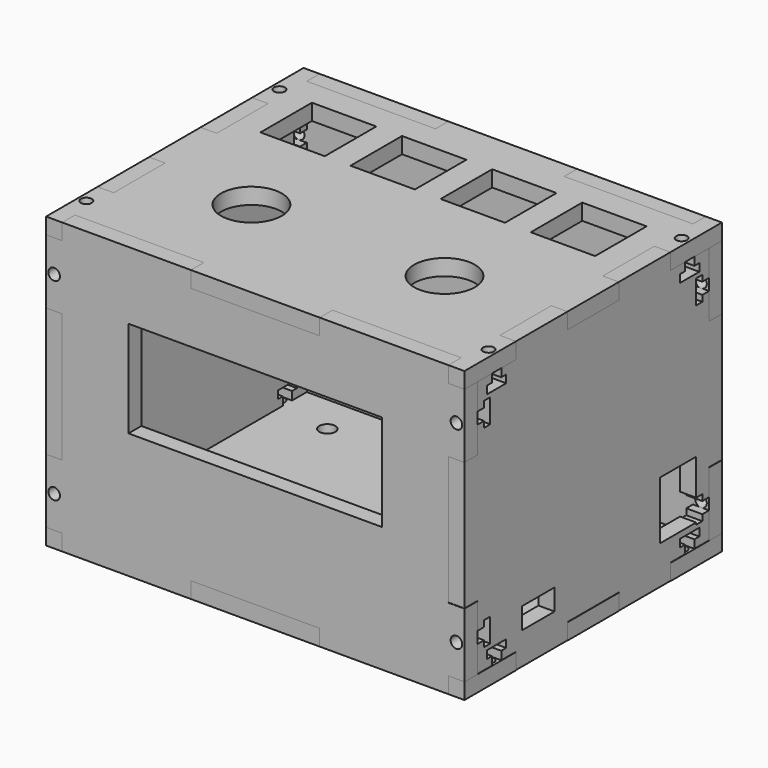
from build123d import *

# Parameters (mm, degrees)
F0_R      = 1.085347
F0_R_2    = 1.5875
F1_DEPTH  = 3.175
F3_DEPTH  = 3.175
F4_R      = 1.143
F4_W      = 50.038
F4_H      = 19.05
F5_DEPTH  = 3.175
F6_R      = 1.085347
F6_R_2    = 6.000001
F6_W      = 12.7
F6_H      = 12.7
F7_DEPTH  = 3.175
F9_W      = 8.001
F9_H      = 4.191
F10_DEPTH = 3.175
F12_R     = 1.143
F13_DEPTH = 3.175


with BuildPart() as f1:
    # F0 (on Top) → F1 (new body)
    with BuildSketch(Plane.XY):
        Polygon((0, 12.7), (0, 0), (3.175, 0), (3.175, 3.175), (28.575, 3.175), (28.575, 0), (53.975, 0), (53.975, 3.175), (64.135, 3.175), (79.375, 3.175), (79.375, 0), (80.9625, 0), (82.55, 0), (82.55, 7.9375), (82.55, 12.7), (79.375, 12.7), (79.375, 25.4), (82.55, 25.4), (82.55, 38.1), (79.375, 38.1), (79.375, 50.8), (82.55, 50.8), (82.55, 63.5), (79.375, 63.5), (79.375, 60.325), (65.405, 60.325), (53.975, 60.325), (53.975, 63.5), (28.575, 63.5), (28.575, 60.325), (14.298205, 60.325), (13.335, 60.325), (3.175, 60.325), (3.175, 63.5), (0, 63.5), (0, 50.8), (3.175, 50.8), (3.175, 38.1), (0, 38.1), (0, 25.4), (3.175, 25.4), (3.175, 12.7), align=None)
        with Locations((1.587501, 7.9375)):
            Circle(F0_R, mode=Mode.SUBTRACT)
        with Locations((13.335, 24.765)):
            Circle(F0_R_2, mode=Mode.SUBTRACT)
        with Locations((64.135, 9.525)):
            Circle(F0_R_2, mode=Mode.SUBTRACT)
        with Locations((80.962501, 7.9375)):
            Circle(F0_R, mode=Mode.SUBTRACT)
        with Locations((13.335, 52.705)):
            Circle(F0_R_2, mode=Mode.SUBTRACT)
        with Locations((1.587501, 55.5625)):
            Circle(F0_R, mode=Mode.SUBTRACT)
        with Locations((65.405, 57.785)):
            Circle(F0_R_2, mode=Mode.SUBTRACT)
        with Locations((80.962501, 55.5625)):
            Circle(F0_R, mode=Mode.SUBTRACT)
    extrude(amount=F1_DEPTH)


with BuildPart() as f3:
    # F2 (on Right) → F3 (new body)
    with BuildSketch(Plane.YZ):
        Polygon((25.4, 57.15), (12.7, 57.15), (12.7, 53.975), (9.0805, 53.975), (9.0805, 52.324), (10.287, 52.324), (10.287, 50.8), (9.0805, 50.8), (6.7945, 50.8), (5.588, 50.8), (5.588, 52.324), (6.7945, 52.324), (6.7945, 53.975), (3.175, 53.975), (3.175, 48.768), (4.826, 48.768), (4.826, 49.9745), (6.35, 49.9745), (6.35, 48.768), (6.35, 46.482), (6.35, 45.2755), (4.826, 45.2755), (4.826, 46.482), (3.175, 46.482), (3.175, 41.275), (0, 41.275), (0, 15.875), (3.175, 15.875), (3.175, 10.668), (4.826, 10.668), (4.826, 11.8745), (6.35, 11.8745), (6.35, 10.668), (6.35, 8.382), (6.35, 7.1755), (4.826, 7.1755), (4.826, 8.382), (3.175, 8.382), (3.175, 3.175), (6.7945, 3.175), (6.7945, 4.826), (5.588, 4.826), (5.588, 6.35), (6.7945, 6.35), (9.0805, 6.35), (10.287, 6.35), (10.287, 4.826), (9.0805, 4.826), (9.0805, 3.175), (12.7, 3.175), (12.7, 0), (25.4, 0), (25.4, 3.175), (38.1, 3.175), (38.1, 0), (50.8, 0), (50.8, 3.175), (54.4195, 3.175), (54.4195, 4.826), (53.213, 4.826), (53.213, 6.35), (54.4195, 6.35), (56.7055, 6.35), (57.912, 6.35), (57.912, 4.826), (56.7055, 4.826), (56.7055, 3.175), (60.325, 3.175), (60.325, 8.382), (58.674, 8.382), (58.674, 7.1755), (57.15, 7.1755), (57.15, 8.382), (57.15, 10.668), (57.15, 11.8745), (58.674, 11.8745), (58.674, 10.668), (60.325, 10.668), (60.325, 15.875), (63.5, 15.875), (63.5, 41.275), (60.325, 41.275), (60.325, 46.482), (58.674, 46.482), (58.674, 45.2755), (57.15, 45.2755), (57.15, 46.482), (57.15, 48.768), (57.15, 49.9745), (58.674, 49.9745), (58.674, 48.768), (60.325, 48.768), (60.325, 53.975), (56.7055, 53.975), (56.7055, 52.324), (57.912, 52.324), (57.912, 50.8), (56.7055, 50.8), (54.4195, 50.8), (53.213, 50.8), (53.213, 52.324), (54.4195, 52.324), (54.4195, 53.975), (50.8, 53.975), (50.8, 57.15), (38.1, 57.15), (38.1, 53.975), (25.4, 53.975), align=None)
    extrude(amount=F3_DEPTH)


with BuildPart() as f5:
    # F4 (on Front) → F5 (new body)
    with BuildSketch(Plane.XZ):
        Polygon((3.175, 3.175), (3.175, 0), (28.575, 0), (28.575, 3.175), (53.975, 3.175), (53.975, 0), (79.375, 0), (79.375, 3.175), (82.55, 3.175), (82.55, 15.875), (79.375, 15.875), (79.375, 41.275), (82.55, 41.275), (82.55, 53.975), (79.375, 53.975), (79.375, 57.15), (53.975, 57.15), (53.975, 53.975), (28.575, 53.975), (28.575, 57.15), (3.175, 57.15), (3.175, 53.975), (0, 53.975), (0, 41.275), (3.175, 41.275), (3.175, 15.875), (0, 15.875), (0, 9.525), (0, 3.175), align=None)
        with Locations((1.5875, 9.525)):
            Circle(F4_R, mode=Mode.SUBTRACT)
        with Locations((80.9625, 9.525)):
            Circle(F4_R, mode=Mode.SUBTRACT)
        with Locations((1.5875, 47.625)):
            Circle(F4_R, mode=Mode.SUBTRACT)
        with Locations((41.275, 34.29)):
            Rectangle(F4_W, F4_H, mode=Mode.SUBTRACT)
        with Locations((80.9625, 47.625)):
            Circle(F4_R, mode=Mode.SUBTRACT)
    extrude(amount=-F5_DEPTH)


with BuildPart() as f7:
    # F6 (on Top) → F7 (new body)
    with BuildSketch(Plane.XY):
        Polygon((0, 12.7), (0, 0), (3.175, 0), (3.175, 3.175), (28.575, 3.175), (28.575, 0), (53.975, 0), (53.975, 3.175), (64.135, 3.175), (79.375, 3.175), (79.375, 0), (82.55, 0), (82.55, 12.7), (79.375, 12.7), (79.375, 25.4), (82.55, 25.4), (82.55, 38.1), (79.375, 38.1), (79.375, 50.8), (82.55, 50.8), (82.55, 63.5), (79.375, 63.5), (79.375, 60.325), (65.405, 60.325), (53.975, 60.325), (53.975, 63.5), (28.575, 63.5), (28.575, 60.325), (14.298205, 60.325), (13.335, 60.325), (8.255, 60.325), (3.175, 60.325), (3.175, 63.5), (1.5875, 63.5), (0, 63.5), (0, 55.5625), (0, 50.8), (3.175, 50.8), (3.175, 38.1), (0, 38.1), (0, 25.4), (3.175, 25.4), (3.175, 12.7), align=None)
        with Locations((1.5875, 7.9375)):
            Circle(F6_R, mode=Mode.SUBTRACT)
        with Locations((22.225, 22.86)):
            Circle(F6_R_2, mode=Mode.SUBTRACT)
        with Locations((80.9625, 7.9375)):
            Circle(F6_R, mode=Mode.SUBTRACT)
        with Locations((60.325, 22.86)):
            Circle(F6_R_2, mode=Mode.SUBTRACT)
        with Locations((1.5875, 55.5625)):
            Circle(F6_R, mode=Mode.SUBTRACT)
        with Locations((14.605, 48.895)):
            Rectangle(F6_W, F6_H, mode=Mode.SUBTRACT)
        with Locations((32.385, 48.895)):
            Rectangle(F6_W, F6_H, mode=Mode.SUBTRACT)
        with Locations((50.165, 48.895)):
            Rectangle(F6_W, F6_H, mode=Mode.SUBTRACT)
        with Locations((67.945, 48.895)):
            Rectangle(F6_W, F6_H, mode=Mode.SUBTRACT)
        with Locations((80.9625, 55.5625)):
            Circle(F6_R, mode=Mode.SUBTRACT)
    extrude(amount=F7_DEPTH)


with BuildPart() as f7_1:
    # F8: moved
    add(f7.part.moved(Location((0, 0, 53.975))))


with BuildPart() as f10:
    # F9 (on Right) → F10 (new body)
    with BuildSketch(Plane.YZ):
        Polygon((25.4, 57.15), (12.7, 57.15), (12.7, 54.026428), (12.7, 53.975), (9.0805, 53.975), (9.0805, 52.375428), (10.287, 52.375428), (10.287, 50.851428), (9.0805, 50.851428), (6.7945, 50.851428), (5.588, 50.851428), (5.588, 52.375428), (6.7945, 52.375428), (6.7945, 53.975), (3.175, 53.975), (3.175, 48.819428), (4.826, 48.819428), (4.826, 50.025928), (6.35, 50.025928), (6.35, 48.819428), (6.35, 46.533428), (6.35, 45.326928), (4.826, 45.326928), (4.826, 46.533428), (3.175, 46.533428), (3.175, 41.326428), (3.175, 41.275), (0, 41.275), (0, 15.926428), (3.175, 15.926428), (3.175, 15.875), (3.175, 10.719428), (4.826, 10.719428), (4.826, 11.925928), (6.35, 11.925928), (6.35, 10.719428), (6.35, 8.433428), (6.35, 7.226928), (4.826, 7.226928), (4.826, 8.433428), (3.175, 8.433428), (3.175, 3.226428), (6.7945, 3.226428), (6.7945, 4.877428), (5.588, 4.877428), (5.588, 6.401428), (6.7945, 6.401428), (9.0805, 6.401428), (10.287, 6.401428), (10.287, 4.877428), (9.0805, 4.877428), (9.0805, 3.226428), (12.7, 3.226428), (12.7, 3.175), (12.7, 0.051428), (25.4, 0.051428), (25.4, 3.175), (25.4, 3.226428), (38.1, 3.226428), (38.1, 3.175), (38.1, 0.051428), (50.8, 0.051428), (50.8, 3.175), (50.8, 3.226428), (54.4195, 3.226428), (54.4195, 4.877428), (53.213, 4.877428), (53.213, 6.401428), (54.4195, 6.401428), (56.7055, 6.401428), (57.912, 6.401428), (57.912, 4.877428), (56.7055, 4.877428), (56.7055, 3.226428), (57.15, 3.226428), (60.325, 3.226428), (60.325, 8.433428), (58.674, 8.433428), (58.674, 7.226928), (57.15, 7.226928), (57.15, 7.62), (48.26, 7.62), (48.26, 19.05), (57.15, 19.05), (57.15, 11.925928), (58.674, 11.925928), (58.674, 10.719428), (60.325, 10.719428), (60.325, 15.875), (60.325, 15.926428), (63.5, 15.926428), (63.5, 41.275), (60.325, 41.275), (60.325, 41.326428), (60.325, 46.533428), (58.674, 46.533428), (58.674, 45.326928), (57.15, 45.326928), (57.15, 46.533428), (57.15, 48.819428), (57.15, 50.025928), (58.674, 50.025928), (58.674, 48.819428), (60.325, 48.819428), (60.325, 53.975), (56.7055, 53.975), (56.7055, 52.375428), (57.912, 52.375428), (57.912, 50.851428), (56.7055, 50.851428), (54.4195, 50.851428), (53.213, 50.851428), (53.213, 52.375428), (54.4195, 52.375428), (54.4195, 53.975), (50.8, 53.975), (50.8, 54.026428), (50.8, 57.15), (38.1, 57.15), (38.1, 54.026428), (38.1, 53.975), (25.4, 53.975), (25.4, 54.026428), align=None)
        with Locations((18.2245, 8.4455)):
            Rectangle(F9_W, F9_H, mode=Mode.SUBTRACT)
    extrude(amount=F10_DEPTH)


with BuildPart() as f10_1:
    # F11: moved
    add(f10.part.moved(Location((79.375, 0, 0))))


with BuildPart() as f13:
    # F12 (on Front) → F13 (new body)
    with BuildSketch(Plane.XZ):
        Polygon((3.175, 3.175), (3.175, 0), (28.575, 0), (28.575, 3.175), (53.975, 3.175), (53.975, 0), (79.375, 0), (79.375, 3.175), (82.55, 3.175), (82.55, 15.875), (79.375, 15.875), (79.375, 41.275), (82.55, 41.275), (82.55, 53.975), (79.375, 53.975), (79.375, 57.15), (53.975, 57.15), (53.975, 53.975), (28.575, 53.975), (28.575, 57.15), (3.175, 57.15), (3.175, 53.975), (0, 53.975), (0, 41.275), (3.175, 41.275), (3.175, 15.875), (0, 15.875), (0, 9.525), (0, 3.175), align=None)
        with Locations((1.5875, 9.525)):
            Circle(F12_R, mode=Mode.SUBTRACT)
        with Locations((80.9625, 9.525)):
            Circle(F12_R, mode=Mode.SUBTRACT)
        with Locations((1.5875, 47.625)):
            Circle(F12_R, mode=Mode.SUBTRACT)
        with Locations((80.9625, 47.625)):
            Circle(F12_R, mode=Mode.SUBTRACT)
    extrude(amount=-F13_DEPTH)


with BuildPart() as f13_1:
    # F14: moved
    add(f13.part.moved(Location((0, 60.325, 0))))


solid = Compound([f1.part, f3.part, f5.part, f7_1.part, f10_1.part, f13_1.part])
